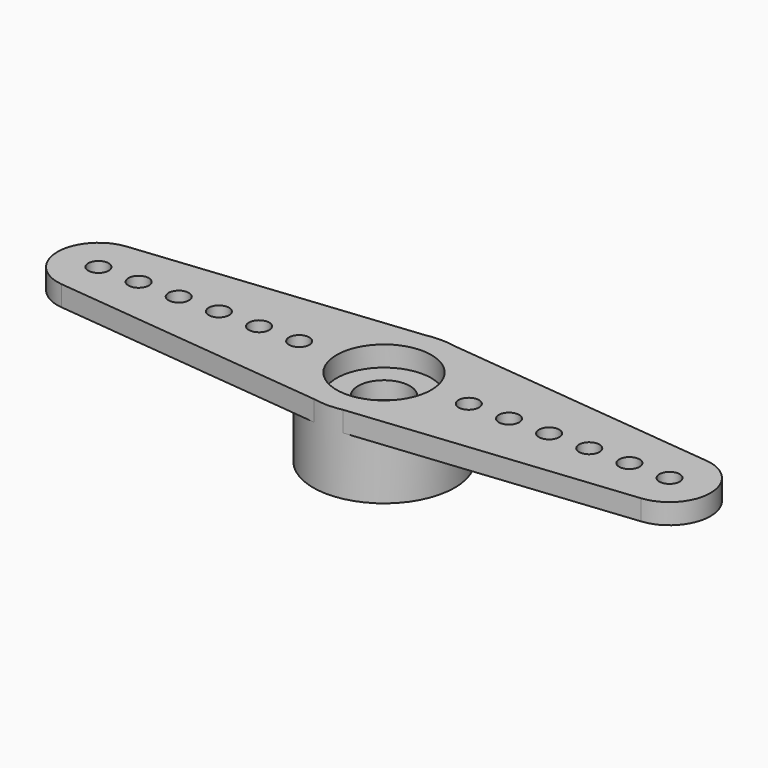
from build123d import *

# Parameters (mm, degrees)
F0_R      = 3.475
F1_DEPTH  = 3.85
F2_R      = 2.425
F3_DEPTH  = 2
F5_DEPTH  = 1
F6_R      = 2.325
F7_DEPTH  = 1
F8_R      = 1.275
F9_DEPTH  = 2.851
F10_R     = 0.5
F11_DEPTH = 3.851


with BuildPart() as f1:
    # F0 (on Top) → F1 (new body)
    with BuildSketch(Plane.XY):
        Circle(F0_R)
    extrude(amount=F1_DEPTH)

    # F2 (on face) → F3 (cut)
    with BuildSketch(Plane(origin=(0, 0, 0), x_dir=(1, 0, 0), z_dir=(0, 0, -1))):
        Circle(F2_R)
    extrude(amount=-F3_DEPTH, mode=Mode.SUBTRACT)

    # F4 (on face) → F5 (join)
    with BuildSketch(Plane.XY.offset(3.85)):
        with BuildLine():
            Line((14.22, 2), (0, 3.475))
            ThreePointArc((0, 3.475), (-3.475, 0), (0, -3.475))
            Line((0, -3.475), (14.22, -2))
            ThreePointArc((14.22, -2), (16.023276, 0), (14.22, 2))
        make_face()
    extrude(amount=-F5_DEPTH)

    # F6 (on face) → F7 (cut)
    with BuildSketch(Plane.XY.offset(3.85)):
        Circle(F6_R)
    extrude(amount=-F7_DEPTH, mode=Mode.SUBTRACT)

    # F8 (on face) → F9 (cut, through all)
    with BuildSketch(Plane.XY.offset(2.85)):
        Circle(F8_R)
    extrude(amount=-F9_DEPTH, mode=Mode.SUBTRACT)

    # F10 (on face) → F11 (cut, through all)
    with BuildSketch(Plane.XY.offset(3.85)):
        with Locations((14.012546, 0)):
            Circle(F10_R)
        with Locations((12.042546, 0)):
            Circle(F10_R)
        with Locations((10.072546, 0)):
            Circle(F10_R)
        with Locations((8.102546, 0)):
            Circle(F10_R)
        with Locations((6.132546, 0)):
            Circle(F10_R)
        with Locations((4.162546, 0)):
            Circle(F10_R)
    extrude(amount=-F11_DEPTH, mode=Mode.SUBTRACT)

    # F12: F1 across plane


with BuildPart() as f1_1:
    add(f1.part)
    add(f1.part.mirror(Plane.YZ))


solid = f1_1.part
